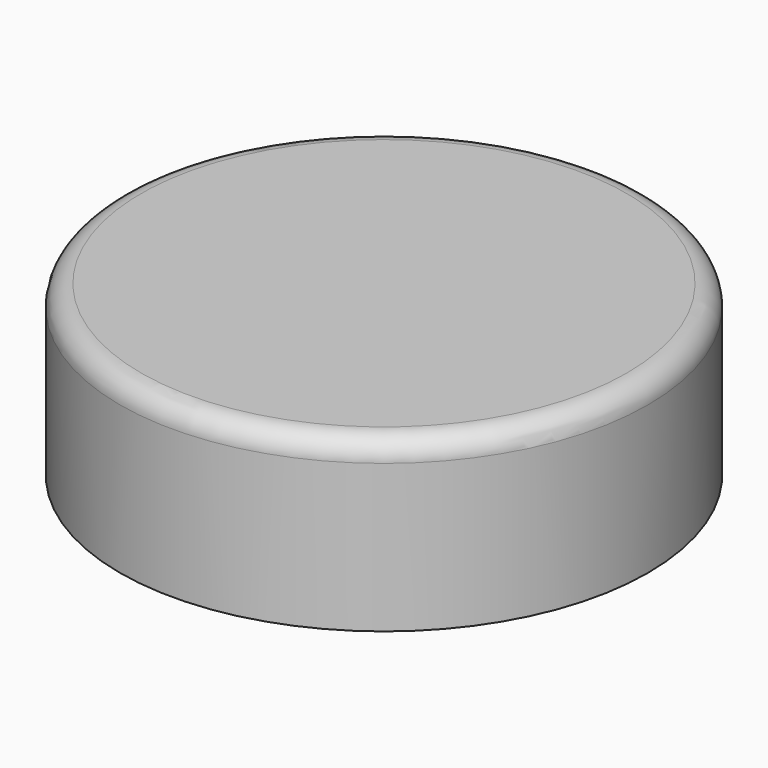
from build123d import *

# Parameters (mm, degrees)
SKETCH059_R     = 12.5
PAD030_DEPTH    = 8
SKETCH060_R     = 3.5
POCKET029_DEPTH = 6.5
FILLET003_R     = 1
SKETCH061_R     = 2
POCKET030_DEPTH = 10


with BuildPart() as part:
    # Sketch059 → Pad030 (new body)
    with BuildSketch(Plane.XY):
        Circle(SKETCH059_R)
    extrude(amount=PAD030_DEPTH)

    # Sketch060 (on Face2 of Pad030) → Pocket029 (cut)
    with BuildSketch(Plane(origin=(0, 0, 0), x_dir=(1, 0, 0), z_dir=(0, 0, -1))):
        Circle(SKETCH060_R)
    extrude(amount=-POCKET029_DEPTH, mode=Mode.SUBTRACT)

    # Fillet003
    fillet003_edges = [part.edges().sort_by_distance(p)[0] for p in [
        (-12.5, 0, 8),
    ]]
    fillet(fillet003_edges, radius=FILLET003_R)

    # Sketch061 (on DatumPlane) → Pocket030 (cut)
    with BuildSketch(Plane(origin=(0, 12.5, 3.5), x_dir=(-1, 0, 0), z_dir=(0, 1, 0))):
        Circle(SKETCH061_R)
    extrude(amount=-POCKET030_DEPTH, mode=Mode.SUBTRACT)


with BuildPart() as part_1:
    # Body015 placement: moved
    add(part.part.moved(Location((94.5, 67.5, 2.5))))


solid = part_1.part
